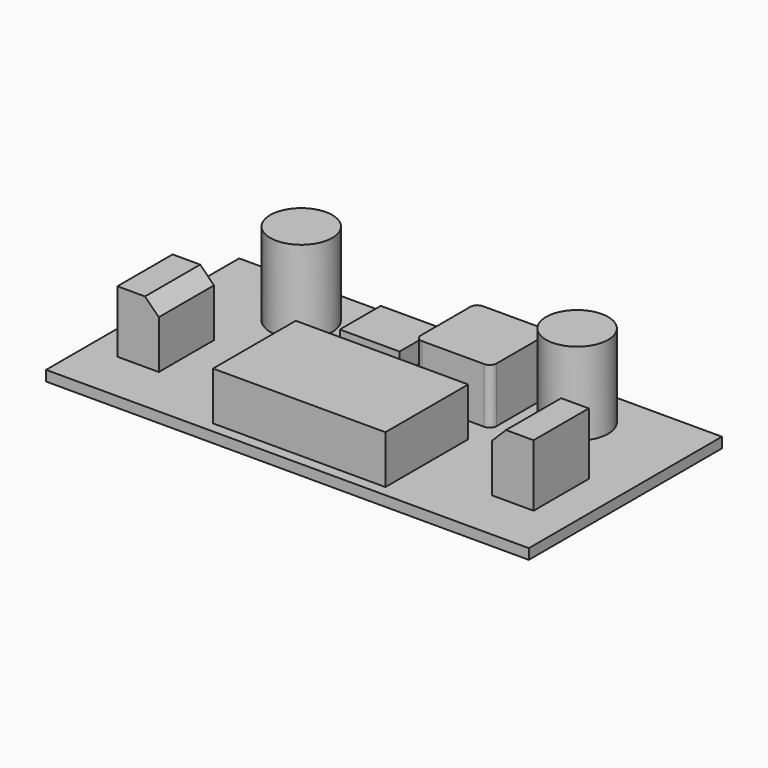
from build123d import *

# Parameters (mm, degrees)
F0_W      = 70
F0_H      = 35
F1_DEPTH  = 1.5
F2_R      = 4.5
F3_DEPTH  = 12
F4_W      = 8.664048
F4_H      = 7.426328
F5_DEPTH  = 3
F6_W      = 11
F6_H      = 11
F7_DEPTH  = 8
F8_R      = 1
F9_R      = 1
F10_W     = 25
F10_H     = 15
F11_DEPTH = 7
F12_W     = 6
F12_H     = 10
F13_DEPTH = 9
F14_SIZE  = 2
F15_SIZE  = 2


with BuildPart() as f1:
    # F0 (on Top) → F1 (new body)
    with BuildSketch(Plane.XY):
        Rectangle(F0_W, F0_H)
    extrude(amount=-F1_DEPTH)

    # F2 (on Top) → F3 (join)
    with BuildSketch(Plane.XY):
        with Locations((-20, 10)):
            Circle(F2_R)
        with Locations((20, 10)):
            Circle(F2_R)
    extrude(amount=F3_DEPTH)

    # F4 (on Top) → F5 (join)
    with BuildSketch(Plane.XY):
        with Locations((-7.271611, 10.2112)):
            Rectangle(F4_W, F4_H)
    extrude(amount=F5_DEPTH)

    # F6 (on Top) → F7 (join)
    with BuildSketch(Plane.XY):
        with Locations((7.962182, 8.088716)):
            Rectangle(F6_W, F6_H)
    extrude(amount=F7_DEPTH)

    # F8
    f8_edges = [f1.edges().sort_by_distance(p)[0] for p in [
        (13.462182, 13.588716, 4),
    ]]
    fillet(f8_edges, radius=F8_R)

    # F9
    f9_edges = [f1.edges().sort_by_distance(p)[0] for p in [
        (2.462182, 2.588716, 4),
        (13.462182, 2.588716, 4),
        (2.462182, 13.588716, 4),
    ]]
    fillet(f9_edges, radius=F9_R)

    # F10 (on Top) → F11 (join)
    with BuildSketch(Plane.XY):
        with Locations((0.464146, -8.447183)):
            Rectangle(F10_W, F10_H)
    extrude(amount=F11_DEPTH)

    # F12 (on Top) → F13 (join)
    with BuildSketch(Plane.XY):
        with Locations((26.690762, -5)):
            Rectangle(F12_W, F12_H)
        with Locations((-27.694009, -4.952371)):
            Rectangle(F12_W, F12_H)
    extrude(amount=F13_DEPTH)

    # F14
    f14_edges = [f1.edges().sort_by_distance(p)[0] for p in [
        (-24.694009, -4.952371, 9),
    ]]
    chamfer(f14_edges, length=F14_SIZE)

    # F15
    f15_edges = [f1.edges().sort_by_distance(p)[0] for p in [
        (23.690762, -5, 9),
    ]]
    chamfer(f15_edges, length=F15_SIZE)


solid = f1.part
